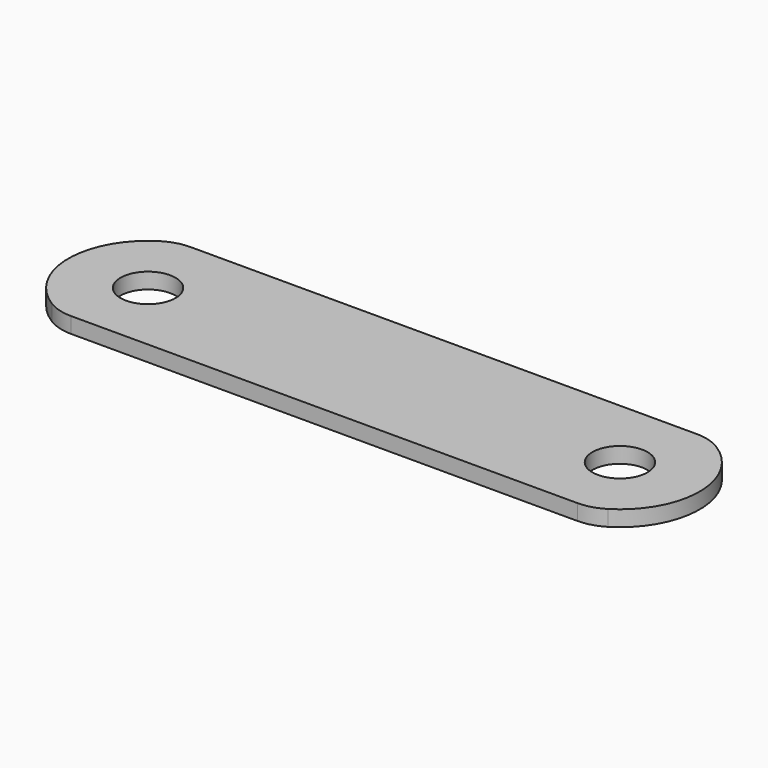
from build123d import *

# Parameters (mm, degrees)
F0_R     = 3.5
F1_DEPTH = 2
F2_R     = 6


with BuildPart() as f1:
    # F0 (on Top) → F1 (new body)
    with BuildSketch(Plane.XY):
        with BuildLine():
            Line((-33.5, 0), (0, 0))
            Line((0, 0), (33.5, 0))
            ThreePointArc((33.5, 0), (40.124228, 9.5), (33.5, 19))
            Line((33.5, 19), (0, 19))
            Line((0, 19), (-33.5, 19))
            ThreePointArc((-33.5, 19), (-40.124228, 9.5), (-33.5, 0))
        make_face()
        with Locations((-30, 9.5)):
            Circle(F0_R, mode=Mode.SUBTRACT)
        with Locations((30, 9.5)):
            Circle(F0_R, mode=Mode.SUBTRACT)
    extrude(amount=F1_DEPTH)

    # F2
    f2_edges = [f1.edges().sort_by_distance(p)[0] for p in [
        (-33.5, 0, 1),
        (-33.5, 19, 1),
        (33.5, 19, 1),
        (33.5, 0, 1),
    ]]
    fillet(f2_edges, radius=F2_R)


solid = f1.part
